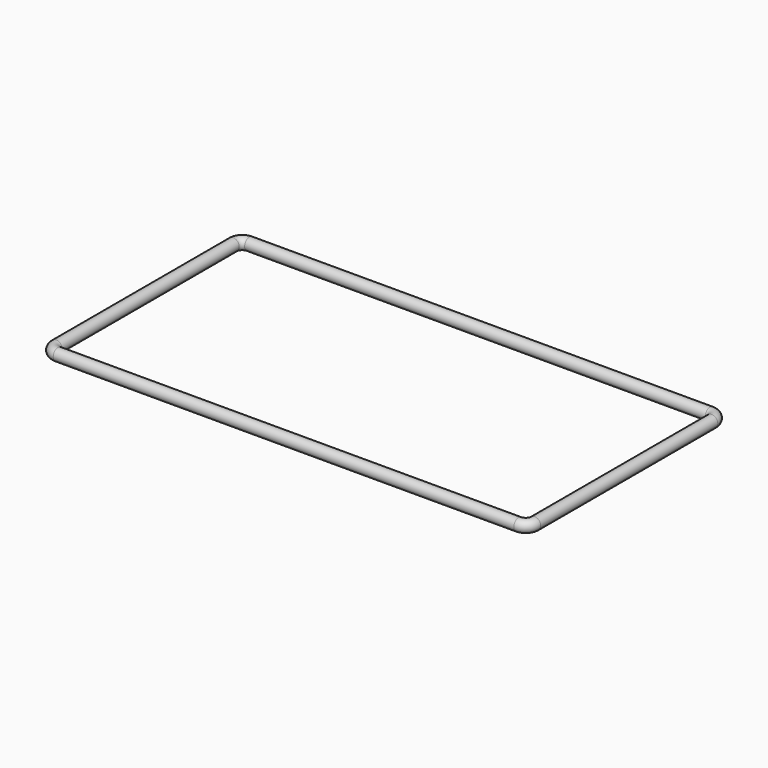
from build123d import *

# Parameters (mm, degrees)
F2_R = 1


with BuildPart() as f3:
    # F3: sweep along a path in F0
    with BuildLine(Plane.XY) as f3_path:
        Line((38.5, -20), (-38.5, -20))
        ThreePointArc((-38.5, -20), (-39.56066, -19.56066), (-40, -18.5))
        Line((-40, -18.5), (-40, 18.5))
        ThreePointArc((-40, 18.5), (-39.56066, 19.56066), (-38.5, 20))
        Line((-38.5, 20), (38.5, 20))
        ThreePointArc((38.5, 20), (39.56066, 19.56066), (40, 18.5))
        Line((40, 18.5), (40, -18.5))
        ThreePointArc((40, -18.5), (39.56066, -19.56066), (38.5, -20))
    # F2 (on offset) → F3 (sweep)
    with BuildSketch(Plane.YZ.offset(36.5)):
        with Locations((-20, 0)):
            Circle(F2_R)
    sweep(path=f3_path.line)


solid = f3.part
